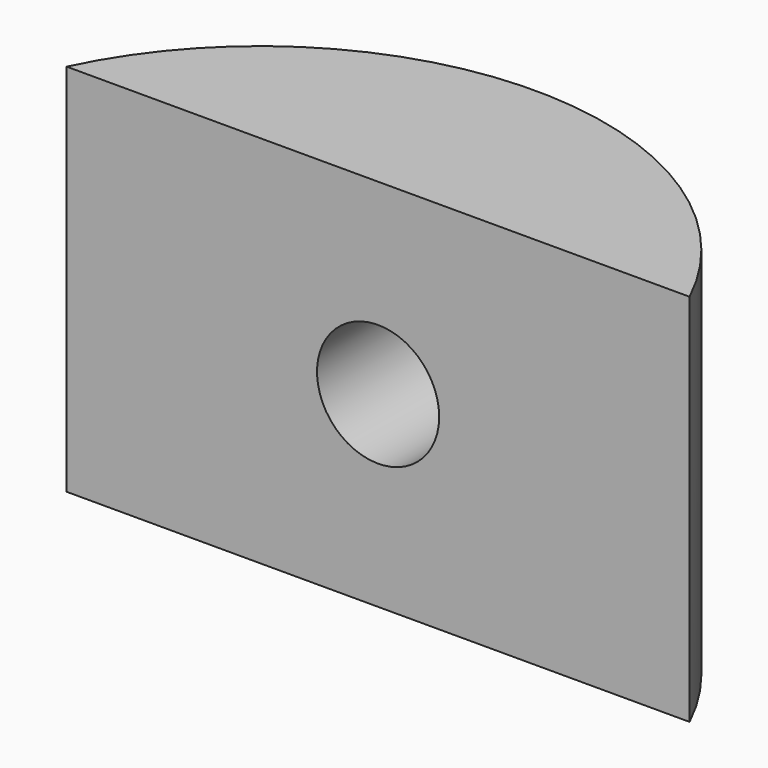
from build123d import *

# Parameters (mm, degrees)
PAD_DEPTH    = 9.5
SKETCH001_R  = 3.1
POCKET_DEPTH = 10.001078


with BuildPart() as part:
    # Sketch → Pad (new body, symmetric)
    with BuildSketch(Plane.XY):
        with BuildLine():
            ThreePointArc((15.811425, 7.499922), (0, 17.5), (-15.811425, 7.499922))
            Line((-15.811425, 7.499922), (15.811425, 7.499922))
        make_face()
    extrude(amount=PAD_DEPTH, both=True)

    # Sketch001 (on Face2 of Pad) → Pocket (cut, through all)
    with BuildSketch(Plane.XZ.offset(-7.499922)):
        Circle(SKETCH001_R)
    extrude(amount=-POCKET_DEPTH, mode=Mode.SUBTRACT)


solid = part.part
